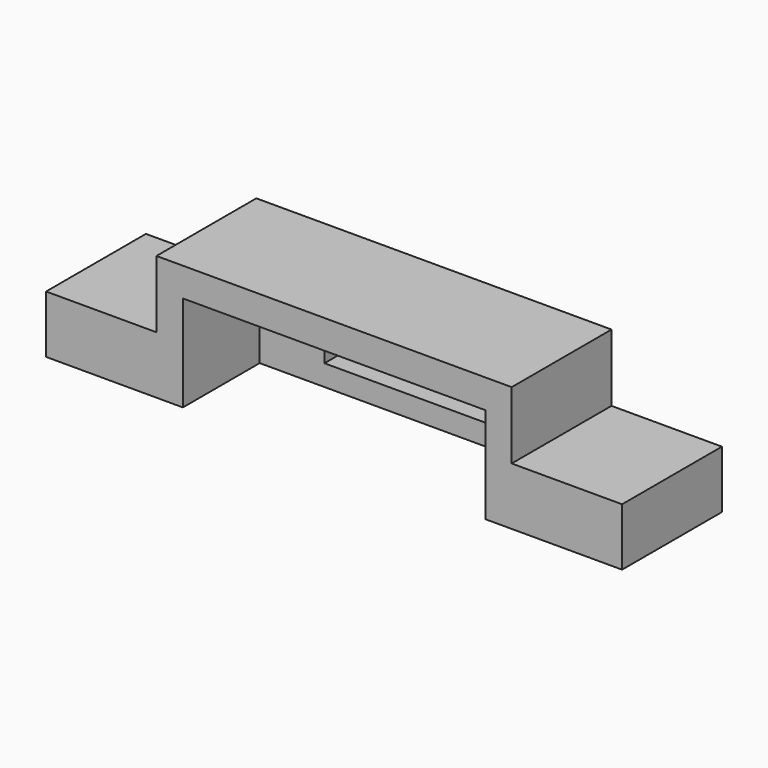
from build123d import *

# Parameters (mm, degrees)
SKETCH_W        = 60
SKETCH_H        = 13
PAD_DEPTH       = 13
POCKET_DEPTH    = 16
SKETCH002_W     = 31.5
SKETCH002_H     = 18.692561
POCKET001_DEPTH = 10
SKETCH003_W     = 18
SKETCH003_H     = 8
POCKET002_DEPTH = 5


with BuildPart() as part:
    # Sketch → Pad (new body)
    with BuildSketch(Plane.XY):
        with Locations((0, 6.5)):
            Rectangle(SKETCH_W, SKETCH_H)
    extrude(amount=PAD_DEPTH)

    # Sketch001 (on Face3 of Pad) → Pocket (cut)
    with BuildSketch(Plane.XZ):
        Polygon((-33.208946, 6), (-18.5, 6), (-18.5, 16.342094), (18.5, 16.342094), (18.5, 6), (35.755672, 6), (31.923449, 22.090439), (-34.230431, 22.090439), align=None)
    extrude(amount=-POCKET_DEPTH, mode=Mode.SUBTRACT)

    # Sketch002 (on Face10 of Pocket) → Pocket001 (cut)
    with BuildSketch(Plane.XZ):
        with Locations((0, 0.65372)):
            Rectangle(SKETCH002_W, SKETCH002_H)
    extrude(amount=-POCKET001_DEPTH, mode=Mode.SUBTRACT)

    # Sketch003 (on Face12 of Pocket001) → Pocket002 (cut)
    with BuildSketch(Plane.XZ.offset(-10)):
        with Locations((0, 6.183331)):
            Rectangle(SKETCH003_W, SKETCH003_H)
    extrude(amount=-POCKET002_DEPTH, mode=Mode.SUBTRACT)


solid = part.part
